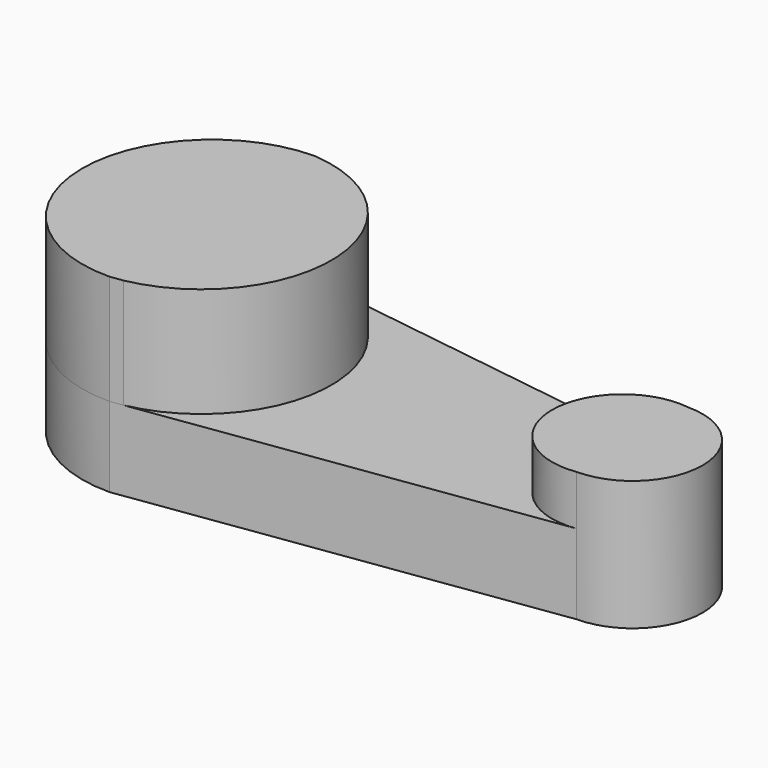
from build123d import *

# Parameters (mm, degrees)
F2_DEPTH = 25.4
F4_DEPTH = 34.925
F6_DEPTH = 15.875


with BuildPart() as f2:
    # F0 (on Top) → F2 (new body)
    with BuildSketch(Plane.XY):
        with BuildLine():
            Line((133.35, 22.225), (0, 41.275))
            ThreePointArc((0, 41.275), (-41.703462, 0), (0, -41.275))
            Line((0, -41.275), (133.35, -22.225))
            ThreePointArc((133.35, -22.225), (155.575, 0), (133.35, 22.225))
        make_face()
    extrude(amount=F2_DEPTH)

    # F3 (on face) → F4 (join)
    with BuildSketch(Plane.XY.offset(25.4)):
        with BuildLine():
            ThreePointArc((-0.852523, 41.275), (-41.701261, -0.426261), (0, -41.275))
            Line((0, -41.275), (3.993336, -40.704523))
            ThreePointArc((3.993336, -40.704523), (37.493164, 2.408654), (-0.852523, 41.275))
        make_face()
    extrude(amount=F4_DEPTH)

    # F5 (on face) → F6 (join)
    with BuildSketch(Plane.XY.offset(25.4)):
        with BuildLine():
            ThreePointArc((133.35, -22.225), (155.575, 0), (133.35, 22.225))
            ThreePointArc((133.35, 22.225), (107.72436, 0), (133.35, -22.225))
        make_face()
    extrude(amount=F6_DEPTH)


solid = f2.part
